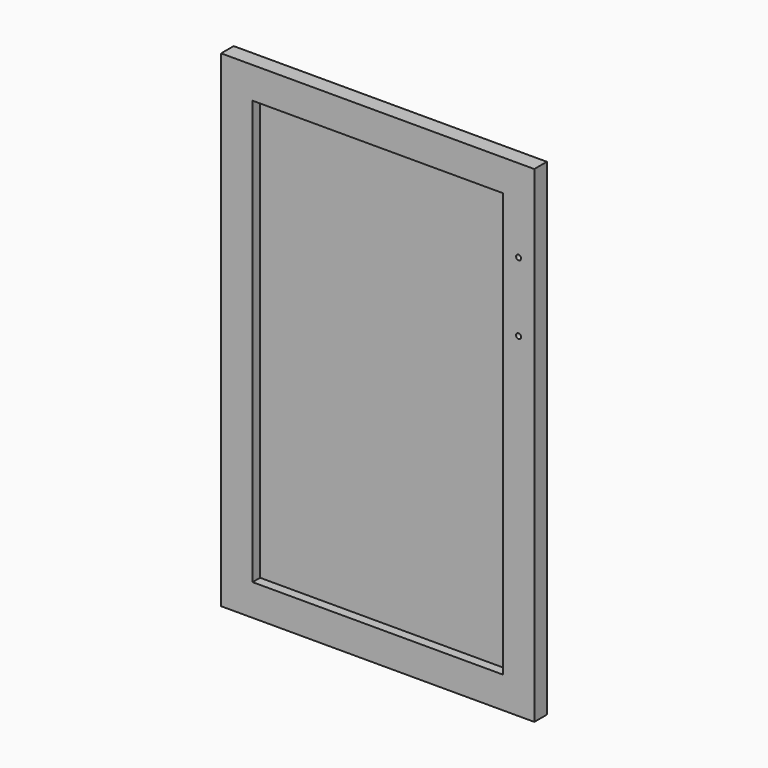
from build123d import *

# Parameters (mm, degrees)
F0_W     = 498
F0_H     = 774
F1_DEPTH = 25
F2_W     = 398
F2_H     = 674
F3_DEPTH = 15
F5_DEPTH = 25
F6_W     = 30
F6_H     = 80
F7_DEPTH = 5


with BuildPart() as f1:
    # F0 (on Front) → F1 (new body)
    with BuildSketch(Plane.XZ):
        Rectangle(F0_W, F0_H)
    extrude(amount=F1_DEPTH)

    # F2 (on face) → F3 (cut)
    with BuildSketch(Plane.XZ.offset(25)):
        Rectangle(F2_W, F2_H)
    extrude(amount=-F3_DEPTH, mode=Mode.SUBTRACT)

    # F4 (on face) → F5 (cut, through all)
    with BuildSketch(Plane.XZ.offset(25)):
        with BuildLine():
            ThreePointArc((228, 255), (221.171573, 257.828427), (224, 251))
            ThreePointArc((224, 251), (226.828427, 252.171573), (228, 255))
        make_face()
        with BuildLine():
            ThreePointArc((228, 145), (226.828427, 147.828427), (224, 149))
            ThreePointArc((224, 149), (221.171573, 142.171573), (228, 145))
        make_face()
    extrude(amount=-F5_DEPTH, mode=Mode.SUBTRACT)

    # F6 (on face) → F7 (cut)
    with BuildSketch(Plane(origin=(0, 0, 0), x_dir=(-1, 0, 0), z_dir=(0, 1, 0))):
        with Locations((209, 317)):
            Rectangle(F6_W, F6_H)
        with Locations((209, -317)):
            Rectangle(F6_W, F6_H)
    extrude(amount=-F7_DEPTH, mode=Mode.SUBTRACT)


solid = f1.part
